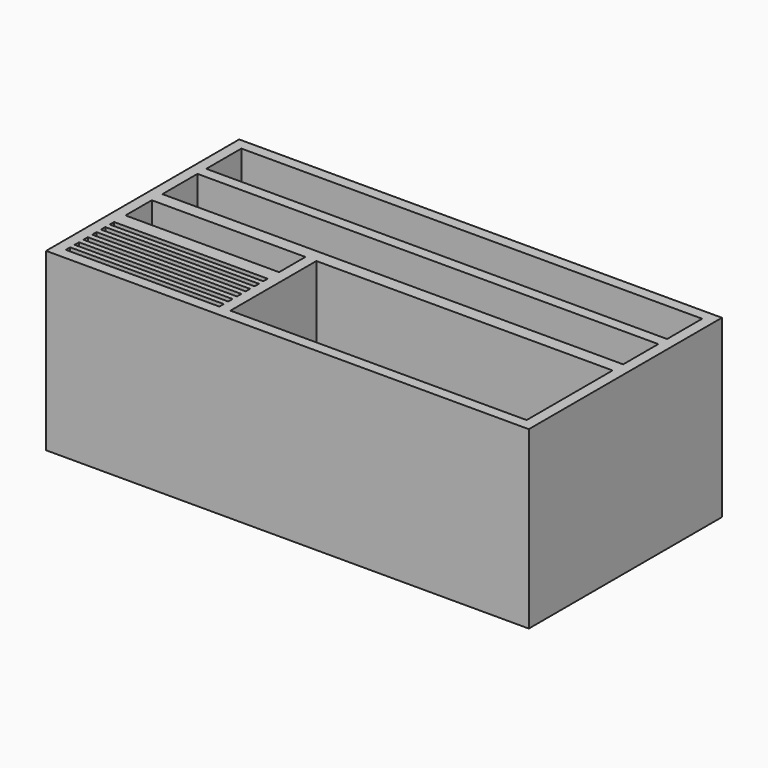
from build123d import *

# Parameters (mm, degrees)
F0_W     = 1117.6
F0_H     = 558.8
F1_DEPTH = 406.4
F2_W     = 355.6
F2_H     = 12.7
F2_W_2   = 1066.8
F2_H_2   = 101.6
F2_W_3   = 685.8
F2_H_3   = 248.804872
F3_DEPTH = 381
F4_W     = 355.6
F4_H     = 76.2
F5_DEPTH = 50.8
F6_R     = 20.6375
F7_DEPTH = 101.6


with BuildPart() as f1:
    # F0 (on Top) → F1 (new body)
    with BuildSketch(Plane.XY):
        with Locations((466.017957, 231.267335)):
            Rectangle(F0_W, F0_H)
    extrude(amount=F1_DEPTH)

    # F2 (on face) → F3 (cut)
    with BuildSketch(Plane.XY.offset(406.4)):
        with Locations((110.417957, -16.382665)):
            Rectangle(F2_W, F2_H)
        with Locations((110.417957, 9.017335)):
            Rectangle(F2_W, F2_H)
        with Locations((110.417957, 34.417335)):
            Rectangle(F2_W, F2_H)
        with Locations((110.417957, 59.817335)):
            Rectangle(F2_W, F2_H)
        with Locations((110.417957, 85.217335)):
            Rectangle(F2_W, F2_H)
        with Locations((110.417957, 110.617335)):
            Rectangle(F2_W, F2_H)
        with Locations((466.017957, 434.467335)):
            Rectangle(F2_W_2, F2_H_2)
        with Locations((466.017957, 307.467335)):
            Rectangle(F2_W_2, F2_H_2)
        with Locations((656.517957, 101.669771)):
            Rectangle(F2_W_3, F2_H_3)
    extrude(amount=-F3_DEPTH, mode=Mode.SUBTRACT)

    # F4 (on face) → F5 (cut)
    with BuildSketch(Plane.XY.offset(406.4)):
        with Locations((110.417957, 187.972207)):
            Rectangle(F4_W, F4_H)
    extrude(amount=-F5_DEPTH, mode=Mode.SUBTRACT)

    # F6 (on face) → F7 (cut)
    with BuildSketch(Plane.XY.offset(355.6)):
        with Locations((-35.632043, 187.972207)):
            Circle(F6_R)
        with Locations((21.517957, 187.972207)):
            Circle(F6_R)
        with Locations((78.667957, 187.972207)):
            Circle(F6_R)
        with Locations((135.817957, 187.972207)):
            Circle(F6_R)
        with Locations((192.967957, 187.972207)):
            Circle(F6_R)
        with Locations((250.117957, 187.972207)):
            Circle(F6_R)
    extrude(amount=-F7_DEPTH, mode=Mode.SUBTRACT)


solid = f1.part
